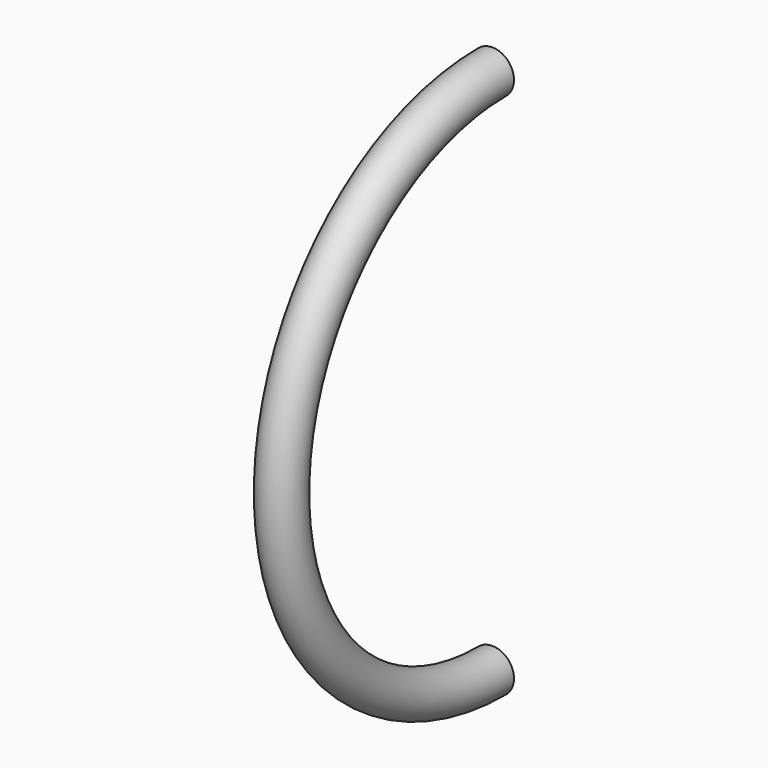
from build123d import *

# Parameters (mm, degrees)
F0_R     = 3
F0_R_2   = 2
F1_ANGLE = 180


with BuildPart() as f1:
    # F0 (on Front) → F1 (revolve)
    with BuildSketch(Plane.XZ):
        with Locations((0, 36.5)):
            Circle(F0_R)
        with Locations((0, 36.5)):
            Circle(F0_R_2, mode=Mode.SUBTRACT)
    revolve(axis=Axis((2.932962, 0, 0), (1, 0, 0)), revolution_arc=F1_ANGLE)


solid = f1.part
